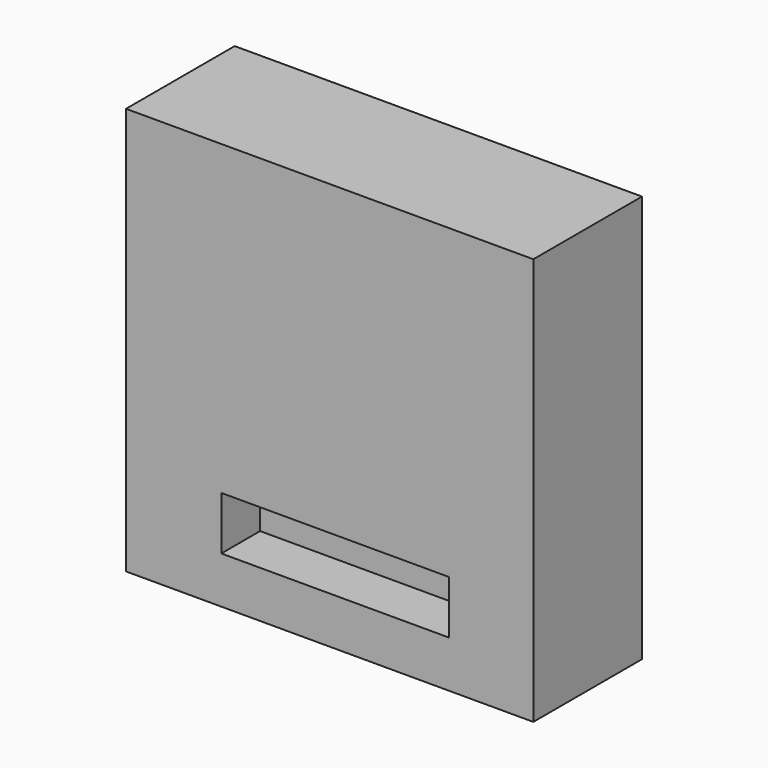
from build123d import *

# Parameters (mm, degrees)
SKETCH046_W     = 42
SKETCH046_H     = 42
PAD022_DEPTH    = 14
SKETCH047_R     = 7
PAD023_DEPTH    = 2.5
SKETCH048_R     = 3
HOLE_DEPTH      = 0.5
HOLE_TIPS_R     = 3
SKETCH049_W     = 23.5
SKETCH049_H     = 5.5
POCKET008_DEPTH = 5


with BuildPart() as part:
    # Sketch046 → Pad022 (new body)
    with BuildSketch(Plane.XZ):
        with Locations((8.147526, -9.378734)):
            Rectangle(SKETCH046_W, SKETCH046_H)
    extrude(amount=PAD022_DEPTH)

    # Sketch047 (on Face5 of Pad022) → Pad023 (join)
    with BuildSketch(Plane(origin=(0, 0, 0), x_dir=(1, 0, 0), z_dir=(0, 1, 0))):
        with Locations((8.142856, 9.219142)):
            Circle(SKETCH047_R)
    extrude(amount=PAD023_DEPTH)

    # Sketch048 (on Face8 of Pad023) → Hole (cut)
    with BuildSketch(Plane(origin=(0, 2.5, 0), x_dir=(1, 0, 0), z_dir=(0, 1, 0))):
        with Locations((8.27745, 9.219093)):
            Circle(SKETCH048_R)
    extrude(amount=-HOLE_DEPTH, mode=Mode.SUBTRACT)

    # Hole tips → Hole tip 1 section 0
    with BuildSketch(Plane(origin=(0, 2, 0), x_dir=(1, 0, 0), z_dir=(0, 1, 0)), mode=Mode.PRIVATE) as hole_tip_1_s0:
        with Locations((8.27745, 9.219093)):
            Circle(HOLE_TIPS_R)
    loft([hole_tip_1_s0.sketch, Vertex(8.27745, 0.197418, -9.219093)], mode=Mode.SUBTRACT)

    # Sketch049 (on Face5 of Hole) → Pocket008 (cut)
    with BuildSketch(Plane.XZ.offset(14)):
        with Locations((8.721823, -22.801634)):
            Rectangle(SKETCH049_W, SKETCH049_H)
    extrude(amount=-POCKET008_DEPTH, mode=Mode.SUBTRACT)


with BuildPart() as part_1:
    # Body007 placement: moved
    add(part.part.moved(Location((-10, 80, 143.5))))


solid = part_1.part
